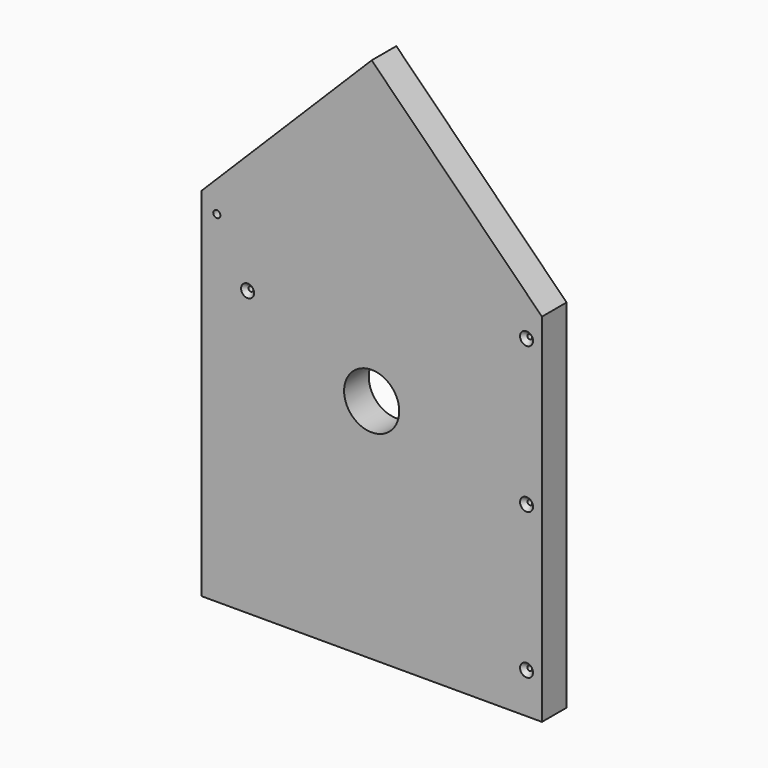
from build123d import *

# Parameters (mm, degrees)
F1_R           = 17
F2_DEPTH       = 19
F4_D           = 3
F4_CSINK_D     = 8
F4_CSINK_ANGLE = 90
F5_D           = 4.4


with BuildPart() as f2:
    # F1 (on Front) → F2 (new body)
    with BuildSketch(Plane.XZ):
        Polygon((105, 0), (105, 220), (0, 325), (-105, 220), (-105, 0), align=None)
        with Locations((0, 140)):
            Circle(F1_R, mode=Mode.SUBTRACT)
    extrude(amount=F2_DEPTH)

    # F4 (through all)
    with Locations(Plane.XZ.offset(19)):
        with Locations((95.5, 25), (95.5, 115), (95.5, 205), (-76.5, 175)):
            CounterSinkHole(F4_D / 2, F4_CSINK_D / 2, counter_sink_angle=F4_CSINK_ANGLE)

    # F5 (through all)
    with Locations(Plane.XZ.offset(19)):
        with Locations((-95.5, 210.5)):
            Hole(F5_D / 2)


solid = f2.part
